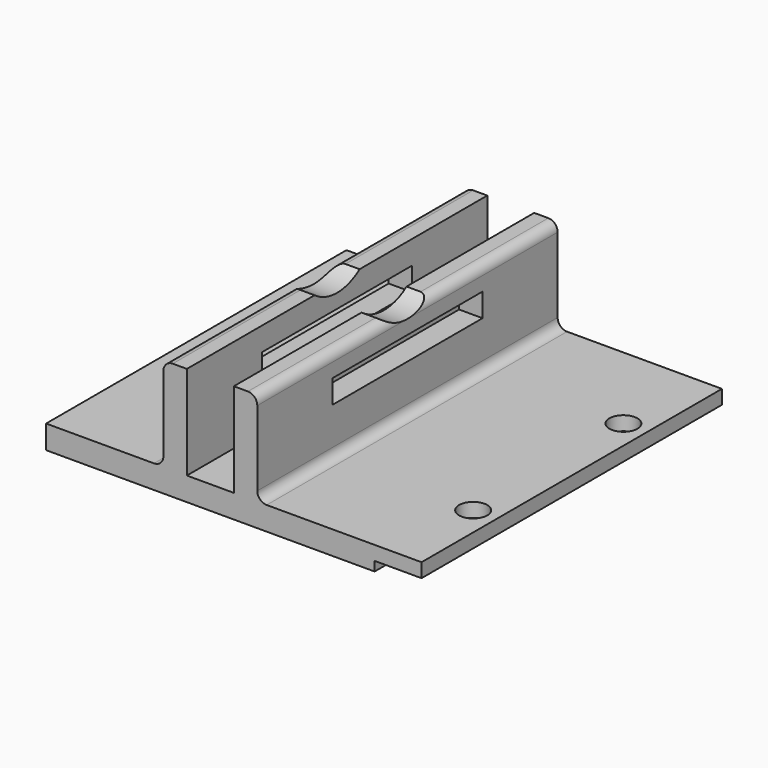
from build123d import *

# Parameters (mm, degrees)
F0_W      = 5
F0_H      = 20
F1_DEPTH  = 40
F2_R      = 2
F3_R      = 2
F4_W      = 40
F4_H      = 5
F5_DEPTH  = 25
F6_W      = 10
F6_H      = 80
F7_DEPTH  = 3
F8_R      = 3
F9_DEPTH  = 3
F12_R     = 10
F13_DEPTH = 25


with BuildPart() as f1:
    # F0 (on Front) → F1 (new body, symmetric)
    with BuildSketch(Plane.XZ):
        with Locations((-12.5, 10)):
            Rectangle(F0_W, F0_H)
        Polygon((0, 0), (-10, 0), (-15, 0), (-40, 0), (-40, -5), (0, -5), align=None)
        with Locations((2.5, 10)):
            Rectangle(F0_W, F0_H)
        Polygon((5, 0), (0, 0), (0, -5), (30, -5), (30, 0), align=None)
    extrude(amount=F1_DEPTH, both=True)

    # F2
    f2_edges = [f1.edges().sort_by_distance(p)[0] for p in [
        (5, 0, 0),
        (-15, 0, 0),
    ]]
    fillet(f2_edges, radius=F2_R)

    # F3
    f3_edges = [f1.edges().sort_by_distance(p)[0] for p in [
        (-15, 0, 20),
        (5, 0, 20),
    ]]
    fillet(f3_edges, radius=F3_R)

    # F4 (on face) → F5 (cut)
    with BuildSketch(Plane(origin=(-15, 0, 0), x_dir=(0, -1, 0), z_dir=(-1, 0, 0))):
        with Locations((0, 12.5)):
            Rectangle(F4_W, F4_H)
    extrude(amount=-F5_DEPTH, mode=Mode.SUBTRACT)

    # F6 (on face) → F7 (join)
    with BuildSketch(Plane.XY):
        with Locations((35, 0)):
            Rectangle(F6_W, F6_H)
    extrude(amount=-F7_DEPTH)


with BuildPart() as f9:
    # F8 (on face) → F9 (new body)
    with BuildSketch(Plane(origin=(0, 0, -3), x_dir=(1, 0, 0), z_dir=(0, 0, -1))):
        with Locations((35, 20)):
            Circle(F8_R)
    extrude(amount=-F9_DEPTH)


with BuildPart() as f10_1:
    # F10: instance of F9
    add(f9.part.mirror(Plane.XZ))


with BuildPart() as f1_1:
    add(f1.part)

    # F11: cut F10_1, F9
    add(f10_1.part, mode=Mode.SUBTRACT)
    add(f9.part, mode=Mode.SUBTRACT)

    # F12 (on face) → F13 (cut)
    with BuildSketch(Plane(origin=(-15, 0, 0), x_dir=(0, -1, 0), z_dir=(-1, 0, 0))):
        with Locations((0, 28)):
            Circle(F12_R)
    extrude(amount=-F13_DEPTH, mode=Mode.SUBTRACT)


solid = f1_1.part
